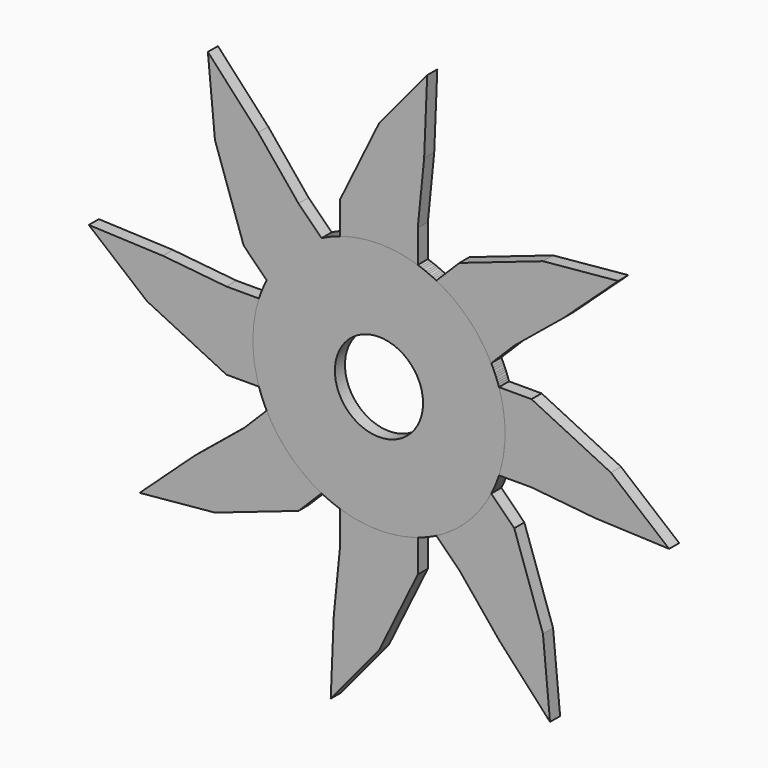
from build123d import *

# Parameters (mm, degrees)
F0_R     = 12.7
F1_DEPTH = 0.635
F2_W     = 7.815492
F2_H     = 5.961056
F3_DEPTH = 0.635
F4_COUNT = 8
F5_R     = 4.439905
F6_DEPTH = 0.635


with BuildPart() as f1:
    # F0 (on Front) → F1 (new body, symmetric)
    with BuildSketch(Plane.XZ):
        Circle(F0_R)
    extrude(amount=F1_DEPTH, both=True)

    # F2 (on Front) → F3 (join, symmetric)
    with BuildSketch(Plane.XZ):
        with Locations((0, 12.379177)):
            Rectangle(F2_W, F2_H)
        Polygon((-3.907746, 15.359705), (3.907746, 15.359705), (4.549023, 21.755937), (0, 23.355249), align=None)
        Polygon((0, 23.355249), (4.549023, 21.755937), (4.856857, 29.218012), align=None)
    extrude(amount=F3_DEPTH, both=True)


with BuildPart() as f4_1:
    # F4: instance of F1
    add(f1.part.rotate(Axis((0, -0.635, 0), (0, 1, 0)), 1 * 360 / F4_COUNT))


with BuildPart() as f4_2:
    # F4: instance of F1
    add(f1.part.rotate(Axis((0, -0.635, 0), (0, 1, 0)), 2 * 360 / F4_COUNT))


with BuildPart() as f4_3:
    # F4: instance of F1
    add(f1.part.rotate(Axis((0, -0.635, 0), (0, 1, 0)), 3 * 360 / F4_COUNT))


with BuildPart() as f4_4:
    # F4: instance of F1
    add(f1.part.rotate(Axis((0, -0.635, 0), (0, 1, 0)), 4 * 360 / F4_COUNT))


with BuildPart() as f4_5:
    # F4: instance of F1
    add(f1.part.rotate(Axis((0, -0.635, 0), (0, 1, 0)), 5 * 360 / F4_COUNT))


with BuildPart() as f4_6:
    # F4: instance of F1
    add(f1.part.rotate(Axis((0, -0.635, 0), (0, 1, 0)), 6 * 360 / F4_COUNT))


with BuildPart() as f4_7:
    # F4: instance of F1
    add(f1.part.rotate(Axis((0, -0.635, 0), (0, 1, 0)), 7 * 360 / F4_COUNT))


with BuildPart() as f6_tool:
    # F5 (on Front) → F6 (new body, symmetric)
    with BuildSketch(Plane.XZ):
        Circle(F5_R)
    extrude(amount=F6_DEPTH, both=True)


with BuildPart() as f1_1:
    add(f1.part)

    # F6: cut by f6_tool
    add(f6_tool.part, mode=Mode.SUBTRACT)


with BuildPart() as f4_1_1:
    add(f4_1.part)

    # F6: cut by f6_tool
    add(f6_tool.part, mode=Mode.SUBTRACT)


with BuildPart() as f4_2_1:
    add(f4_2.part)

    # F6: cut by f6_tool
    add(f6_tool.part, mode=Mode.SUBTRACT)


with BuildPart() as f4_3_1:
    add(f4_3.part)

    # F6: cut by f6_tool
    add(f6_tool.part, mode=Mode.SUBTRACT)


with BuildPart() as f4_4_1:
    add(f4_4.part)

    # F6: cut by f6_tool
    add(f6_tool.part, mode=Mode.SUBTRACT)


with BuildPart() as f4_5_1:
    add(f4_5.part)

    # F6: cut by f6_tool
    add(f6_tool.part, mode=Mode.SUBTRACT)


with BuildPart() as f4_6_1:
    add(f4_6.part)

    # F6: cut by f6_tool
    add(f6_tool.part, mode=Mode.SUBTRACT)


with BuildPart() as f4_7_1:
    add(f4_7.part)

    # F6: cut by f6_tool
    add(f6_tool.part, mode=Mode.SUBTRACT)


solid = Compound([f1_1.part, f4_1_1.part, f4_2_1.part, f4_3_1.part, f4_4_1.part, f4_5_1.part, f4_6_1.part, f4_7_1.part])
